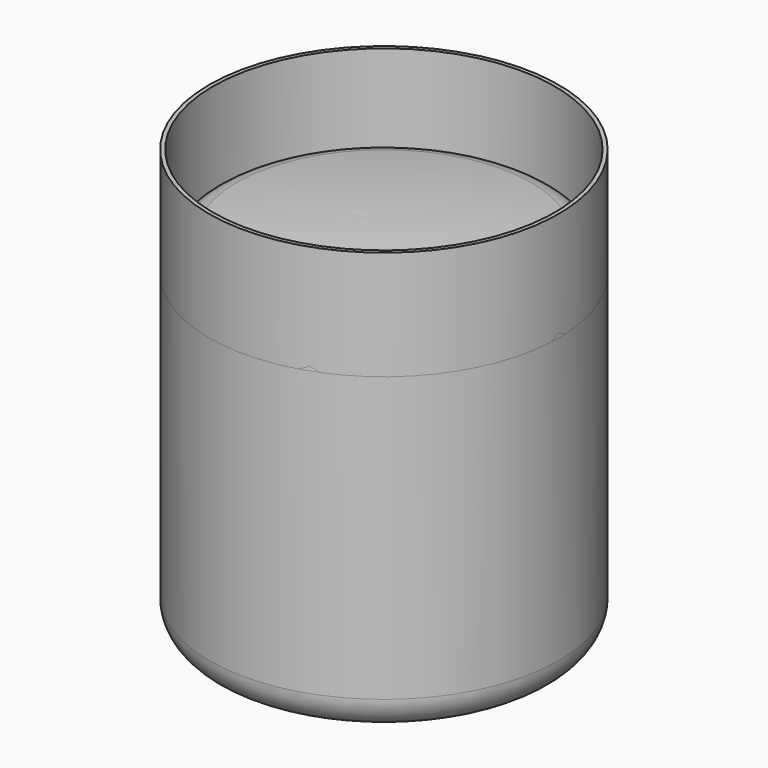
from build123d import *


with BuildPart() as f1:
    # F0 (on Front) → F1 (revolve)
    with BuildSketch(Plane.XZ):
        with BuildLine():
            Line((-198.628, 0), (-198.628, 457.2))
            Line((-198.628, 457.2), (-203.2, 457.2))
            Line((-203.2, 457.2), (-203.2, 0))
            ThreePointArc((-203.2, 0), (-195.82403, -22.530956), (-176.552023, -36.33815))
            ThreePointArc((-176.552023, -36.33815), (-89.314589, -56.669826), (0, -63.5))
            Line((0, -63.5), (0, -58.928))
            ThreePointArc((0, -58.928), (-88.619383, -52.150991), (-175.17778, -31.977572))
            ThreePointArc((-175.17778, -31.977572), (-192.137147, -19.827241), (-198.628, 0))
        make_face()
    revolve(axis=Axis((0, 0, 199.136), (0, 0, -1)))


with BuildPart() as f3:
    # F2 (on Front) → F3 (revolve)
    with BuildSketch(Plane.XZ):
        with BuildLine():
            Line((-203.2, 330.2), (-203.2, 0))
            Line((-203.2, 0), (-198.628, 0))
            Line((-198.628, 0), (-198.628, 330.2))
            ThreePointArc((-198.628, 330.2), (-190.556355, 352.019733), (-170.227812, 363.333553))
            ThreePointArc((-170.227812, 363.333553), (-85.365351, 373.14956), (0, 376.428))
            Line((0, 376.428), (0, 381))
            ThreePointArc((0, 381), (-85.716007, 377.708093), (-170.927059, 367.851765))
            ThreePointArc((-170.927059, 367.851765), (-194.027677, 354.995151), (-203.2, 330.2))
        make_face()
    revolve(axis=Axis((0, 0, 190.5), (0, 0, 1)))


solid = Compound([f1.part, f3.part])
